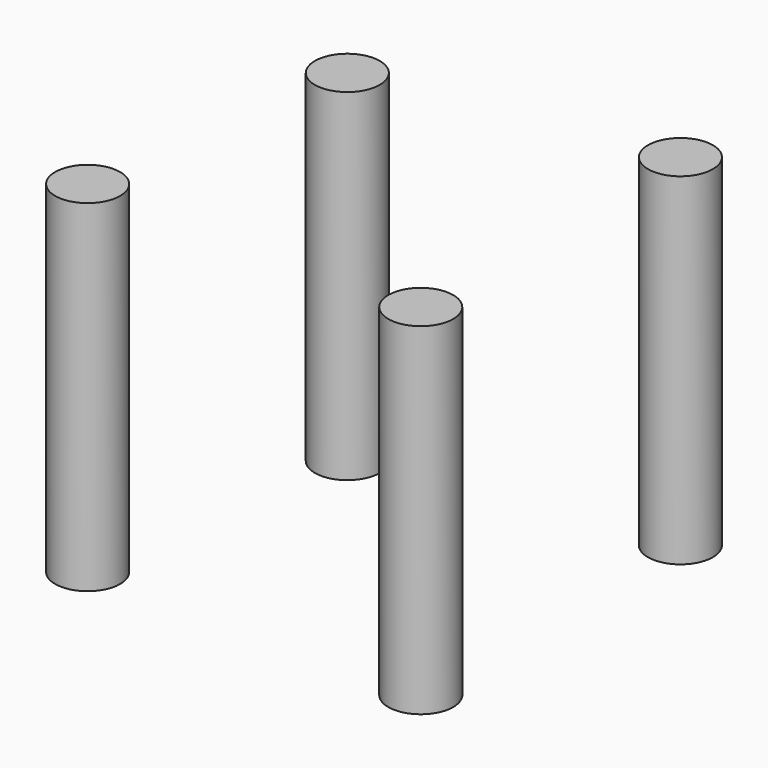
from build123d import *

# Parameters (mm, degrees)
CYLINDER020_R     = 1.9
CYLINDER020_DEPTH = 20
CYLINDER021_R     = 1.9
CYLINDER021_DEPTH = 20
CYLINDER023_R     = 1.9
CYLINDER023_DEPTH = 20
CYLINDER022_R     = 1.9
CYLINDER022_DEPTH = 20


with BuildPart() as cylinder020:
    # Cylinder020 → Cylinder020 (new body)
    with BuildSketch(Plane(origin=(29.5, 10.5, -5), x_dir=(1, 0, 0), z_dir=(0, 0, 1))):
        Circle(CYLINDER020_R)
    extrude(amount=CYLINDER020_DEPTH)


with BuildPart() as cylinder021:
    # Cylinder021 → Cylinder021 (new body)
    with BuildSketch(Plane(origin=(10, 29.5, -7), x_dir=(1, 0, 0), z_dir=(0, 0, 1))):
        Circle(CYLINDER021_R)
    extrude(amount=CYLINDER021_DEPTH)


with BuildPart() as cylinder023:
    # Cylinder023 → Cylinder023 (new body)
    with BuildSketch(Plane(origin=(29.5, 29.5, -5), x_dir=(1, 0, 0), z_dir=(0, 0, 1))):
        Circle(CYLINDER023_R)
    extrude(amount=CYLINDER023_DEPTH)


with BuildPart() as m2_screw_holes001:
    # Cylinder022 → Cylinder022 (new body)
    with BuildSketch(Plane(origin=(10, 10.5, -5), x_dir=(1, 0, 0), z_dir=(0, 0, 1))):
        Circle(CYLINDER022_R)
    extrude(amount=CYLINDER022_DEPTH)

    # Fusion023: union Cylinder020, Cylinder021, Cylinder023
    add(cylinder020.part)
    add(cylinder021.part)
    add(cylinder023.part)


solid = m2_screw_holes001.part
